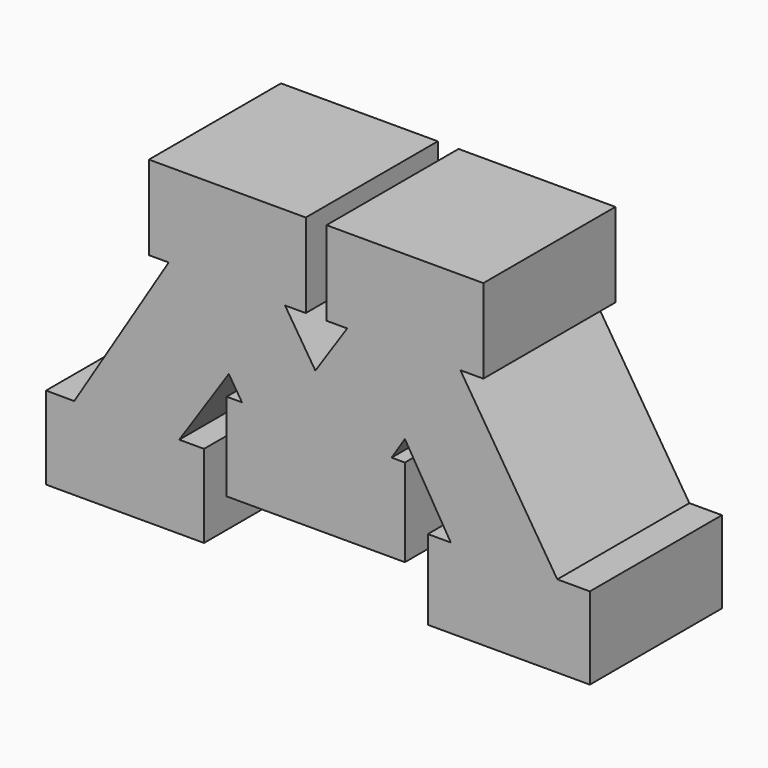
from build123d import *

# Parameters (mm, degrees)
F1_DEPTH = 25.4


with BuildPart() as f1:
    # F0 (on Front) → F1 (new body)
    with BuildSketch(Plane.XZ):
        with BuildLine():
            add(Edge.make_bspline(
                [(-33.719659, 5.282047), (-28.87602, 13.115586), (-24.032382, 20.949125), (-19.188743, 28.782664)],
                knots=[0, 0, 0, 0, 27.630174, 27.630174, 27.630174, 27.630174], degree=3))
            Line((-33.719659, 5.282047), (-38.055241, 5.303812))
            Line((-38.055241, 5.303812), (-38.055241, -7.445157))
            Line((-38.055241, -7.445157), (-13.75252, -7.445157))
            Line((-13.75252, -7.445157), (-13.75252, 5.303812))
            Line((-13.75252, 5.303812), (-17.565828, 5.303812))
            Line((-17.565828, 5.303812), (-9.939212, 16.686819))
            Line((-9.939212, 16.686819), (-7.91495, 13.499577))
            Line((-7.91495, 13.499577), (-10.280703, 13.499577))
            Line((-10.280703, 13.499577), (-10.280703, 0))
            Line((-10.280703, 0), (17.152347, 0))
            Line((17.152347, 0), (17.152347, 13.499577))
            Line((17.152347, 13.499577), (15.103405, 13.499577))
            Line((15.103405, 13.499577), (17.152347, 16.686819))
            Line((17.152347, 16.686819), (24.20981, 4.962322))
            Line((24.20981, 4.962322), (20.681079, 4.962322))
            Line((20.681079, 4.962322), (20.681079, -7.331326))
            Line((20.681079, -7.331326), (45.609865, -7.331326))
            Line((45.609865, -7.331326), (45.609865, 5.303812))
            Line((45.609865, 5.303812), (40.601343, 5.303812))
            Line((40.601343, 5.303812), (25.6896, 28.782664))
            Line((25.6896, 28.782664), (29.218335, 28.782664))
            Line((29.218335, 28.782664), (29.218335, 41.729435))
            Line((29.218335, 41.729435), (5.086357, 41.729435))
            Line((5.086357, 41.729435), (5.086357, 28.782664))
            Line((5.086357, 28.782664), (8.273601, 28.782664))
            add(Edge.make_bspline(
                [(3.378906, 21.467682), (5.010471, 23.906009), (6.642036, 26.344337), (8.273601, 28.782664)],
                knots=[0, 0, 0, 0, 8.801534, 8.801534, 8.801534, 8.801534], degree=3))
            add(Edge.make_bspline(
                [(-1.288126, 28.782664), (0.267551, 26.344337), (1.823229, 23.906009), (3.378906, 21.467682)],
                knots=[0, 0, 0, 0, 8.67699, 8.67699, 8.67699, 8.67699], degree=3))
            add(Edge.make_bspline(
                [(1.899114, 28.782664), (0.836701, 28.782664), (-0.225713, 28.782664), (-1.288126, 28.782664)],
                knots=[0, 0, 0, 0, 3.18724, 3.18724, 3.18724, 3.18724], degree=3))
            add(Edge.make_bspline(
                [(1.899114, 41.729435), (1.899114, 37.413845), (1.899114, 33.098254), (1.899114, 28.782664)],
                knots=[0, 0, 0, 0, 12.946771, 12.946771, 12.946771, 12.946771], degree=3))
            add(Edge.make_bspline(
                [(-22.23286, 41.729435), (-14.188869, 41.729435), (-6.144877, 41.729435), (1.899114, 41.729435)],
                knots=[0, 0, 0, 0, 24.131975, 24.131975, 24.131975, 24.131975], degree=3))
            add(Edge.make_bspline(
                [(-22.23286, 28.782664), (-22.23286, 33.098254), (-22.23286, 37.413845), (-22.23286, 41.729435)],
                knots=[0, 0, 0, 0, 12.946771, 12.946771, 12.946771, 12.946771], degree=3))
            add(Edge.make_bspline(
                [(-19.188743, 28.782664), (-20.203449, 28.782664), (-21.218155, 28.782664), (-22.23286, 28.782664)],
                knots=[0, 0, 0, 0, 3.044117, 3.044117, 3.044117, 3.044117], degree=3))
        make_face()
    extrude(amount=F1_DEPTH)


solid = f1.part
